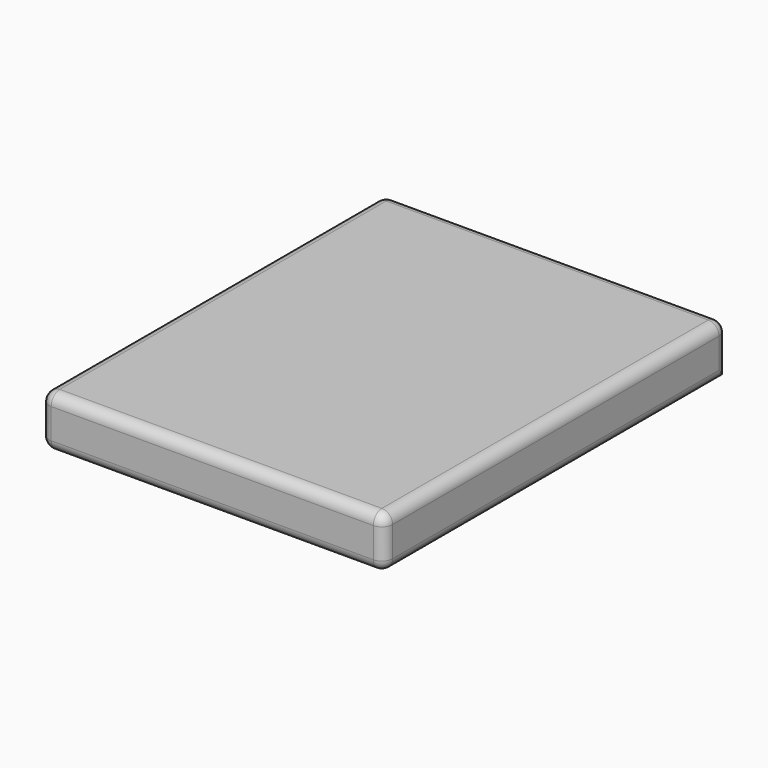
from build123d import *

# Parameters (mm, degrees)
F0_W     = 1600
F0_H     = 2000
F1_DEPTH = 240
F2_R     = 50


with BuildPart() as f1:
    # F0 (on Top) → F1 (new body)
    with BuildSketch(Plane.XY):
        Rectangle(F0_W, F0_H)
    extrude(amount=F1_DEPTH)

    # F2
    f2_edges = [f1.edges().sort_by_distance(p)[0] for p in [
        (800, 0, 240),
        (0, 1000, 240),
        (-800, 0, 240),
        (0, -1000, 240),
        (800, -1000, 120),
        (800, 1000, 120),
        (-800, -1000, 120),
        (-800, 1000, 120),
        (0, -1000, 0),
        (-800, 0, 0),
        (800, 0, 0),
    ]]
    fillet(f2_edges, radius=F2_R)


solid = f1.part
